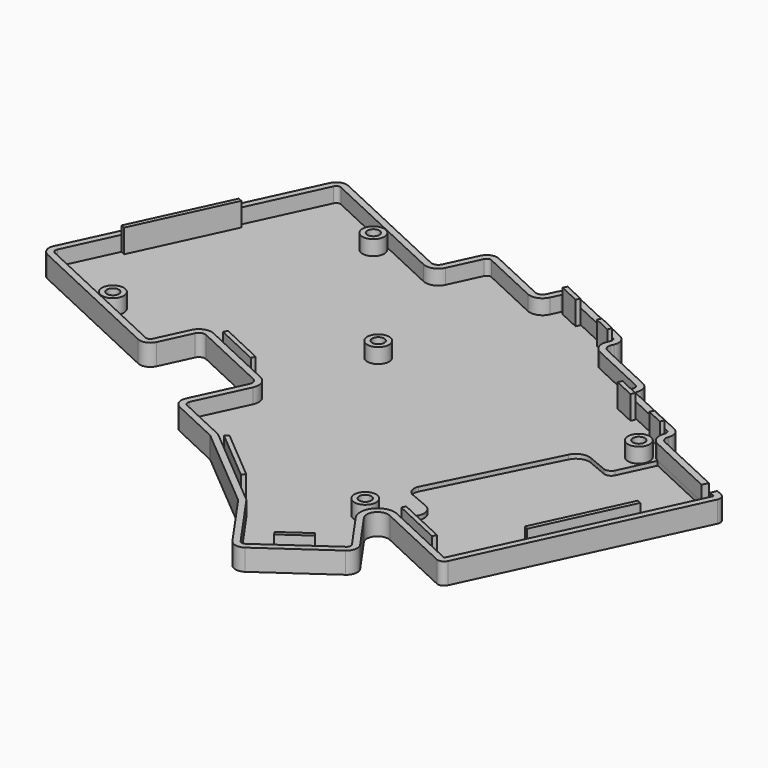
from build123d import *

# Parameters (mm, degrees)
PAD007_DEPTH      = 5
PAD008_DEPTH      = 1.5
SKETCH020_R       = 2.55
PAD009_DEPTH      = 3.5
SKETCH018_R       = 1.4
POCKET008_DEPTH   = 5
SKETCH021_R       = 2.55
POCKET009_DEPTH   = 1
POCKET010_DEPTH   = 1
PAD010_DEPTH      = 2
PAD010_DEPTH_BACK = 5
SKETCH026_W       = 3.5
SKETCH026_H       = 3.5
POCKET011_DEPTH   = 5


with BuildPart() as part:
    # Sketch017 → Pad007 (new body)
    with BuildSketch(Plane(origin=(0, 0, 0), x_dir=(-1, 0, 0), z_dir=(0, 0, 1))):
        with BuildLine():
            Line((-65.904665, -7.036635), (-42.073639, 44.069165))
            ThreePointArc((-42.073639, 44.069165), (-41.989878, 45.979939), (-43.281277, 47.39074))
            Line((-43.281277, 47.39074), (-77.173371, 63.223775))
            ThreePointArc((-77.173371, 63.223775), (-79.08573, 63.308277), (-80.497272, 62.015292))
            Line((-83.835876, 54.855632), (-80.497272, 62.015292))
            ThreePointArc((-85.830216, 54.130542), (-84.6828, 54.079841), (-83.835876, 54.855632))
            Line((-85.830216, 54.130542), (-103.398293, 62.337647))
            ThreePointArc((-104.122875, 64.330592), (-104.173132, 63.184128), (-103.398293, 62.337647))
            Line((-104.122875, 64.330592), (-98.641456, 76.085534))
            ThreePointArc((-98.641456, 76.085534), (-98.557698, 77.996317), (-99.849111, 79.407117))
            Line((-99.849111, 79.407117), (-111.087338, 84.657064))
            ThreePointArc((-111.417496, 84.867729), (-111.259322, 84.751575), (-111.087338, 84.657064))
            Line((-111.417496, 84.867729), (-131.232326, 101.519193))
            Line((-131.232326, 101.519193), (-140.519119, 114.801873))
            ThreePointArc((-140.519119, 114.801873), (-142.133005, 115.831229), (-144.001917, 115.417263))
            Line((-159.075716, 104.862761), (-144.001917, 115.417263))
            ThreePointArc((-159.075716, 104.862761), (-160.103815, 103.249014), (-159.689699, 101.380948))
            Line((-153.608959, 92.696516), (-159.689699, 101.380948))
            ThreePointArc((-156.713402, 88.996832), (-153.741757, 89.655621), (-153.608959, 92.696516))
            Line((-156.713402, 88.996832), (-174.267594, 97.182486))
            ThreePointArc((-174.267594, 97.182486), (-175.41435, 97.232637), (-176.260801, 96.457342))
            Line((-199.519116, 46.617086), (-176.260801, 96.457342))
            ThreePointArc((-199.519116, 46.617086), (-199.569449, 45.469941), (-198.793764, 44.623307))
            Line((-177.858833, 34.861189), (-198.793764, 44.623307))
            ThreePointArc((-177.085324, 32.982958), (-177.105775, 34.072928), (-177.858833, 34.861189))
            Line((-177.085324, 32.982958), (-177.1431, 32.82621))
            ThreePointArc((-177.1431, 32.82621), (-177.109015, 31.009593), (-175.853918, 29.695825))
            Line((-161.510859, 23.007547), (-175.853918, 29.695825))
            ThreePointArc((-161.365752, 22.608869), (-161.355736, 22.838261), (-161.510859, 23.007547))
            Line((-161.389568, 22.557796), (-161.365752, 22.608869))
            ThreePointArc((-161.389568, 22.557796), (-161.47303, 20.6462), (-160.180344, 19.235481))
            Line((-146.913938, 13.049254), (-160.180344, 19.235481))
            ThreePointArc((-146.188404, 11.055865), (-146.138327, 12.202823), (-146.913938, 13.049254))
            Line((-146.430142, 10.537457), (-146.188404, 11.055865))
            ThreePointArc((-146.430142, 10.537457), (-146.513604, 8.625861), (-145.220918, 7.215142))
            Line((-128.544855, -0.561034), (-145.220918, 7.215142))
            ThreePointArc((-128.544855, -0.561034), (-126.633259, -0.644496), (-125.22254, 0.64819))
            Line((-125.22254, 0.64819), (-124.280946, 2.667444))
            ThreePointArc((-122.287557, 3.392978), (-123.434515, 3.443055), (-124.280946, 2.667444))
            Line((-108.700191, -2.942915), (-122.287557, 3.392978))
            ThreePointArc((-108.700191, -2.942915), (-106.788595, -3.026377), (-105.377876, -1.733691))
            Line((-105.377876, -1.733691), (-102.049334, 5.404389))
            ThreePointArc((-100.055945, 6.129923), (-101.202903, 6.18), (-102.049334, 5.404389))
            Line((-69.22698, -8.245859), (-100.055945, 6.129923))
            ThreePointArc((-69.22698, -8.245859), (-67.315384, -8.329321), (-65.904665, -7.036635))
        make_face()
        with BuildLine():
            ThreePointArc((-108.066263, -1.583453), (-107.301625, -1.616838), (-106.737337, -1.099764))
            Line((-106.737337, -1.099764), (-103.408796, 6.038316))
            ThreePointArc((-99.422018, 7.489385), (-101.715933, 7.589539), (-103.408796, 6.038316))
            Line((-68.593053, -6.886397), (-99.422018, 7.489385))
            ThreePointArc((-68.593053, -6.886397), (-67.828415, -6.919782), (-67.264127, -6.402708))
            Line((-67.264127, -6.402708), (-43.433101, 44.703092))
            ThreePointArc((-43.433101, 44.703092), (-43.399596, 45.467402), (-43.916156, 46.031722))
            Line((-43.916156, 46.031722), (-77.80825, 61.864758))
            ThreePointArc((-77.80825, 61.864758), (-78.573193, 61.898558), (-79.13781, 61.381364))
            Line((-82.476414, 54.221705), (-79.13781, 61.381364))
            ThreePointArc((-86.465095, 52.771524), (-84.170264, 52.670123), (-82.476414, 54.221705))
            Line((-86.465095, 52.771524), (-104.033171, 60.978629))
            ThreePointArc((-105.482337, 64.964519), (-105.582851, 62.671591), (-104.033171, 60.978629))
            Line((-105.482337, 64.964519), (-100.000917, 76.719462))
            ThreePointArc((-100.000917, 76.719462), (-99.967414, 77.483775), (-100.48398, 78.048095))
            Line((-100.48398, 78.048095), (-111.722207, 83.298042))
            ThreePointArc((-112.382522, 83.719372), (-112.066175, 83.487064), (-111.722207, 83.298042))
            Line((-112.382522, 83.719372), (-132.348515, 100.497866))
            Line((-132.348515, 100.497866), (-141.748449, 113.942368))
            ThreePointArc((-141.748449, 113.942368), (-142.394003, 114.354111), (-143.141568, 114.188524))
            Line((-158.215367, 103.634022), (-143.141568, 114.188524))
            ThreePointArc((-158.215367, 103.634022), (-158.626606, 102.988523), (-158.46096, 102.241297))
            Line((-152.380219, 93.556868), (-158.46096, 102.241297))
            ThreePointArc((-157.347328, 87.637369), (-152.592694, 88.691434), (-152.380219, 93.556868))
            Line((-157.347328, 87.637369), (-174.901522, 95.823024))
            Line((-198.159836, 45.982769), (-174.901522, 95.823024))
            Line((-177.224906, 36.220651), (-198.159836, 45.982769))
            ThreePointArc((-175.677887, 32.464189), (-175.718789, 34.644129), (-177.224906, 36.220651))
            Line((-175.677887, 32.464189), (-175.735663, 32.307441))
            ThreePointArc((-175.735663, 32.307441), (-175.722029, 31.580794), (-175.21999, 31.055287))
            Line((-160.151885, 24.028914), (-175.21999, 31.055287))
            ThreePointArc((-159.668196, 22.699988), (-159.634811, 23.464626), (-160.151885, 24.028914))
            Line((-160.030106, 21.923869), (-159.668196, 22.699988))
            ThreePointArc((-160.030106, 21.923869), (-160.063491, 21.15923), (-159.546417, 20.594943))
            Line((-146.280011, 14.408716), (-159.546417, 20.594943))
            ThreePointArc((-144.828943, 10.421938), (-144.728788, 12.715853), (-146.280011, 14.408716))
            Line((-145.07068, 9.90353), (-144.828943, 10.421938))
            ThreePointArc((-145.07068, 9.90353), (-145.104065, 9.138891), (-144.586991, 8.574604))
            Line((-127.910927, 0.798428), (-144.586991, 8.574604))
            ThreePointArc((-127.910927, 0.798428), (-127.146289, 0.765043), (-126.582001, 1.282117))
            Line((-126.582001, 1.282117), (-125.640408, 3.301371))
            ThreePointArc((-121.65363, 4.75244), (-123.947545, 4.852594), (-125.640408, 3.301371))
            Line((-108.066263, -1.583453), (-121.65363, 4.75244))
        make_face(mode=Mode.SUBTRACT)
    extrude(amount=-PAD007_DEPTH)

    # Sketch019 → Pad008 (join)
    with BuildSketch(Plane.XY.offset(-5)):
        with BuildLine():
            Line((65.904665, 7.036635), (42.073639, -44.069165))
            ThreePointArc((42.073639, -44.069165), (41.989878, -45.979939), (43.281277, -47.39074))
            Line((43.281277, -47.39074), (77.173371, -63.223775))
            ThreePointArc((77.173371, -63.223775), (79.08573, -63.308277), (80.497272, -62.015292))
            Line((83.835876, -54.855632), (80.497272, -62.015292))
            ThreePointArc((85.830216, -54.130542), (84.6828, -54.079841), (83.835876, -54.855632))
            Line((85.830216, -54.130542), (103.398293, -62.337647))
            ThreePointArc((104.122875, -64.330592), (104.173132, -63.184128), (103.398293, -62.337647))
            Line((104.122875, -64.330592), (98.641456, -76.085534))
            ThreePointArc((98.641456, -76.085534), (98.557698, -77.996317), (99.849111, -79.407117))
            Line((99.849111, -79.407117), (111.087338, -84.657064))
            ThreePointArc((111.417496, -84.867729), (111.259322, -84.751575), (111.087338, -84.657064))
            Line((111.417496, -84.867729), (131.232326, -101.519193))
            Line((131.232326, -101.519193), (140.519119, -114.801873))
            ThreePointArc((140.519119, -114.801873), (142.133005, -115.831229), (144.001917, -115.417263))
            Line((159.075716, -104.862761), (144.001917, -115.417263))
            ThreePointArc((159.075716, -104.862761), (160.103815, -103.249014), (159.689699, -101.380948))
            Line((153.608959, -92.696516), (159.689699, -101.380948))
            ThreePointArc((156.713402, -88.996832), (153.741757, -89.655621), (153.608959, -92.696516))
            Line((156.713402, -88.996832), (174.267594, -97.182486))
            ThreePointArc((174.267594, -97.182486), (175.41435, -97.232637), (176.260801, -96.457342))
            Line((199.519116, -46.617086), (176.260801, -96.457342))
            ThreePointArc((199.519116, -46.617086), (199.569449, -45.469941), (198.793764, -44.623307))
            Line((177.858833, -34.861189), (198.793764, -44.623307))
            ThreePointArc((177.085324, -32.982958), (177.105775, -34.072928), (177.858833, -34.861189))
            Line((177.085324, -32.982958), (177.1431, -32.82621))
            ThreePointArc((177.1431, -32.82621), (177.109015, -31.009593), (175.853918, -29.695825))
            Line((161.510859, -23.007547), (175.853918, -29.695825))
            ThreePointArc((161.365752, -22.608869), (161.355736, -22.838261), (161.510859, -23.007547))
            Line((161.389568, -22.557796), (161.365752, -22.608869))
            ThreePointArc((161.389568, -22.557796), (161.47303, -20.6462), (160.180344, -19.235481))
            Line((146.913938, -13.049254), (160.180344, -19.235481))
            ThreePointArc((146.188404, -11.055865), (146.138327, -12.202823), (146.913938, -13.049254))
            Line((146.430142, -10.537457), (146.188404, -11.055865))
            ThreePointArc((146.430142, -10.537457), (146.513604, -8.625861), (145.220918, -7.215142))
            Line((128.544855, 0.561034), (145.220918, -7.215142))
            ThreePointArc((128.544855, 0.561034), (126.633259, 0.644496), (125.22254, -0.64819))
            Line((125.22254, -0.64819), (124.280946, -2.667444))
            ThreePointArc((122.287557, -3.392978), (123.434515, -3.443055), (124.280946, -2.667444))
            Line((108.700191, 2.942915), (122.287557, -3.392978))
            ThreePointArc((108.700191, 2.942915), (106.788595, 3.026377), (105.377876, 1.733691))
            Line((105.377876, 1.733691), (102.049334, -5.404389))
            ThreePointArc((100.055945, -6.129923), (101.202903, -6.18), (102.049334, -5.404389))
            Line((69.22698, 8.245859), (100.055945, -6.129923))
            ThreePointArc((69.22698, 8.245859), (67.315384, 8.329321), (65.904665, 7.036635))
        make_face()
    extrude(amount=PAD008_DEPTH)

    # Sketch020 → Pad009 (join)
    with BuildSketch(Plane.XY.offset(-3.5)):
        with Locations((148.962863, -86.482205)):
            Circle(SKETCH020_R)
        with Locations((173.648114, -37.261275)):
            Circle(SKETCH020_R)
        with Locations((111.811391, -36.247029)):
            Circle(SKETCH020_R)
        with Locations((84.41736, -3.428082)):
            Circle(SKETCH020_R)
        with Locations((61.826063, -51.433204)):
            Circle(SKETCH020_R)
    extrude(amount=PAD009_DEPTH)

    # Sketch018 → Pocket008 (cut)
    with BuildSketch(Plane.XY):
        with Locations((148.962863, -86.482205)):
            Circle(SKETCH018_R)
        with Locations((173.648114, -37.261275)):
            Circle(SKETCH018_R)
        with Locations((111.811391, -36.247029)):
            Circle(SKETCH018_R)
        with Locations((84.41736, -3.428082)):
            Circle(SKETCH018_R)
        with Locations((61.826063, -51.433204)):
            Circle(SKETCH018_R)
    extrude(amount=-POCKET008_DEPTH, mode=Mode.SUBTRACT)

    # Sketch021 → Pocket009 (cut)
    with BuildSketch(Plane.XY.offset(-5)):
        with Locations((148.962863, -86.482205)):
            Circle(SKETCH021_R)
        with Locations((173.648114, -37.261275)):
            Circle(SKETCH021_R)
        with Locations((111.811391, -36.247029)):
            Circle(SKETCH021_R)
        with Locations((84.41736, -3.428082)):
            Circle(SKETCH021_R)
        with Locations((61.826063, -51.433204)):
            Circle(SKETCH021_R)
    extrude(amount=POCKET009_DEPTH, mode=Mode.SUBTRACT)

    # Sketch025 → Pocket010 (cut)
    with BuildSketch(Plane.XY.offset(-3.5)):
        with BuildLine():
            Line((157.347328, -87.637372), (174.901522, -95.823024))
            Line((198.159836, -45.982769), (174.901522, -95.823024))
            Line((177.224125, -36.220287), (198.159836, -45.982769))
            Line((177.224125, -36.220287), (173.553572, -44.085917))
            ThreePointArc((171.529679, -44.870195), (172.699271, -44.884874), (173.553572, -44.085917))
            Line((171.529679, -44.870195), (166.982533, -42.97555))
            ThreePointArc((166.982533, -42.97555), (164.685623, -42.932338), (162.978557, -44.469734))
            Line((162.978557, -44.469734), (149.507761, -71.545357))
            ThreePointArc((149.507761, -71.545357), (149.410315, -73.3825), (150.683533, -74.71047))
            Line((155.168728, -76.595004), (150.683533, -74.71047))
            ThreePointArc((156.623406, -80.365579), (156.698518, -78.170708), (155.168728, -76.595004))
            Line((156.623406, -80.365579), (152.88322, -88.380427))
            ThreePointArc((157.347328, -87.637372), (155.000088, -87.31689), (152.88322, -88.380427))
        make_face()
    extrude(amount=-POCKET010_DEPTH, mode=Mode.SUBTRACT)

    # Sketch023 → Pad010 (join, two sides)
    with BuildSketch(Plane.XY) as pad010_sk:
        Polygon((115.715838, -86.259293), (116.372972, -85.505304), (128.361005, -95.579491), (127.710714, -96.33923), align=None)
        Polygon((152.781556, -105.973798), (153.411195, -106.753695), (147.258432, -111.06179), (146.720109, -110.217954), align=None)
        Polygon((49.054568, -32.884436), (49.960876, -33.307055), (60.068135, -11.631968), (59.161827, -11.20935), align=None)
        Polygon((89.876483, -54.254815), (90.299102, -53.348507), (100.677334, -58.196804), (100.254716, -59.103112), align=None)
        Polygon((158.75468, -88.18329), (159.177298, -87.276983), (170.670191, -92.636207), (170.247573, -93.542515), align=None)
        Polygon((190.846916, -59.052409), (191.753224, -59.475027), (181.998947, -80.377472), (181.09264, -79.954853), align=None)
        Polygon((127.868666, -0.889059), (127.446047, -1.795366), (132.229571, -4.02596), (132.652189, -3.119652), align=None)
        Polygon((144.122111, -9.571542), (144.544729, -8.665235), (140.654019, -6.850967), (140.2314, -7.757274), align=None)
        Polygon((159.077333, -23.815382), (158.654715, -24.721689), (163.438238, -26.952283), (163.860856, -26.045975), align=None)
        Polygon((174.40803, -32.067581), (174.830649, -31.161273), (170.939939, -29.347005), (170.51732, -30.253313), align=None)
    extrude(amount=PAD010_DEPTH)
    extrude(pad010_sk.sketch, amount=-PAD010_DEPTH_BACK)

    # Sketch026 (on Face29 of Pad010) → Pocket011 (cut)
    with BuildSketch(Plane(origin=(18.41408, 39.489121, 0), x_dir=(-0.906308, 0.422618, 0), z_dir=(0.422618, 0.906308, 0))):
        with Locations((-195.75, -1.75)):
            Rectangle(SKETCH026_W, SKETCH026_H)
    extrude(amount=-POCKET011_DEPTH, mode=Mode.SUBTRACT)


with BuildPart() as part_1:
    # Body003 placement: moved
    add(part.part.moved(Location((0, 0, -5))))


solid = part_1.part
